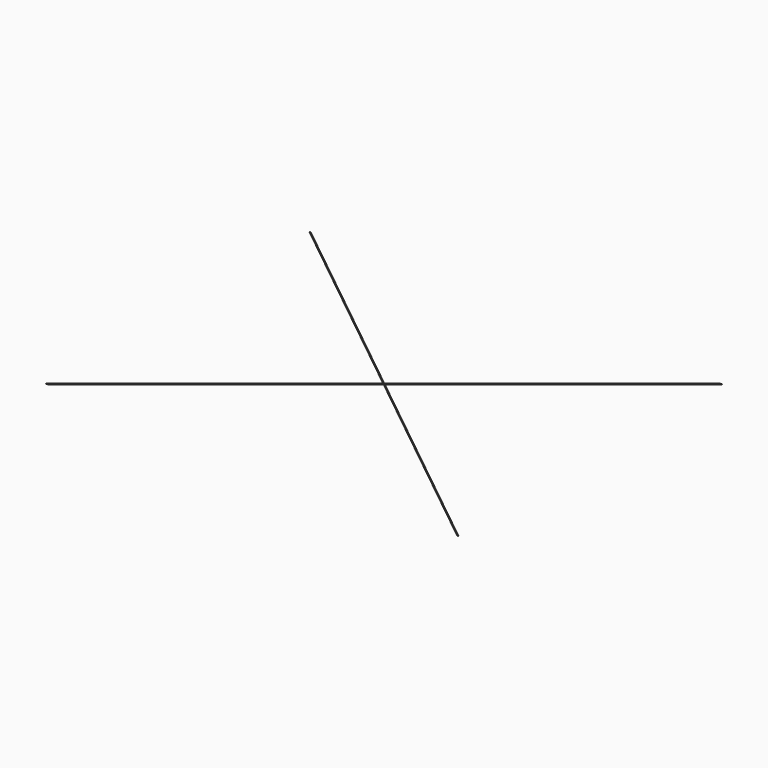
from build123d import *

# Parameters (mm, degrees)
F1_DEPTH = 0.254


with BuildPart() as f1:
    # F0 (on Top) → F1 (new body)
    with BuildSketch(Plane.XY):
        Polygon((0.8128387605, 0), (1.2068300635, 0.3154208164), (298.63395072, 238.4290657383), (296.220290593, 237.7982241055), (0, 0.6507409263), align=None)
        Polygon((1.2068300635, -0.3154208164), (0.8128387605, 0), (0, -0.6507409263), (296.220290593, -237.7982241055), (298.63395072, -238.4290657383), align=None)
        Polygon((0, -0.6507409263), (0.8128387605, 0), (0, 0.6507409263), (-0.8128387605, 0), align=None)
        Polygon((-296.220290593, -237.7982241055), (0, -0.6507409263), (-0.8128387605, 0), (-1.2068300635, -0.3154208164), (-298.63395072, -238.4290657383), align=None)
        Polygon((-0.8128387605, 0), (0, 0.6507409263), (-296.220290593, 237.7982241055), (-298.63395072, 238.4290657383), (-1.2068300635, 0.3154208164), align=None)
    extrude(amount=F1_DEPTH)


solid = f1.part
